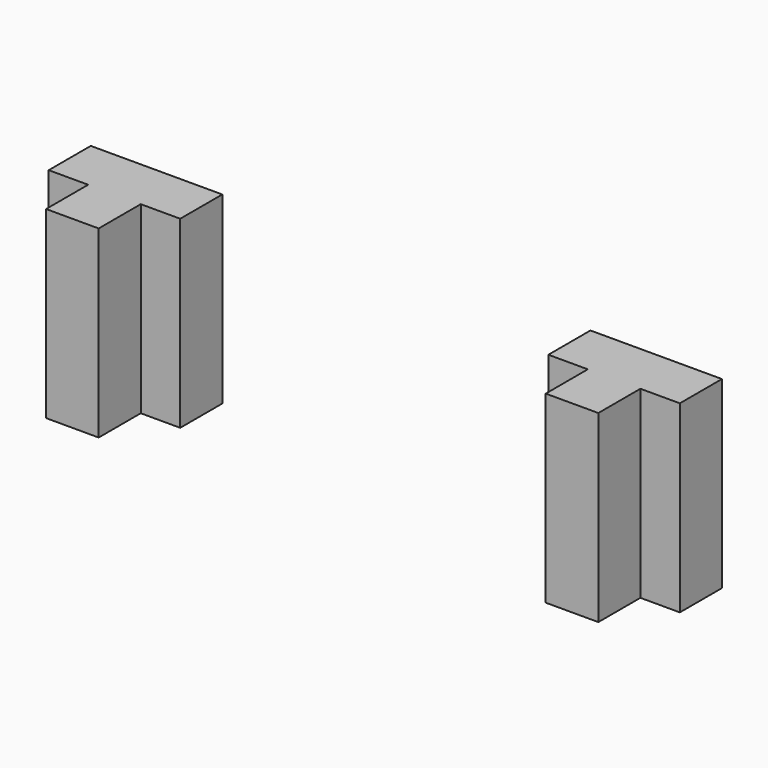
from build123d import *

# Parameters (mm, degrees)
F2_DEPTH = 7


with BuildPart() as f2:
    # F1 (on Top) → F2 (new body)
    with BuildSketch(Plane.XY):
        Polygon((9.5, 0), (10.5, 0), (10.5, 2), (12, 2), (12, 4), (9.5, 4), align=None)
    extrude(amount=F2_DEPTH)

    # F3: F2 across face


with BuildPart() as f2_1:
    add(f2.part)
    add(f2.part.mirror(Plane(origin=(9.5, 2, 3.5), x_dir=(0, -1, 0), z_dir=(-1, 0, 0))))


with BuildPart() as f4_1:
    # F4: instance of F2
    add(f2_1.part.mirror(Plane.YZ))


solid = Compound([f2_1.part, f4_1.part])
